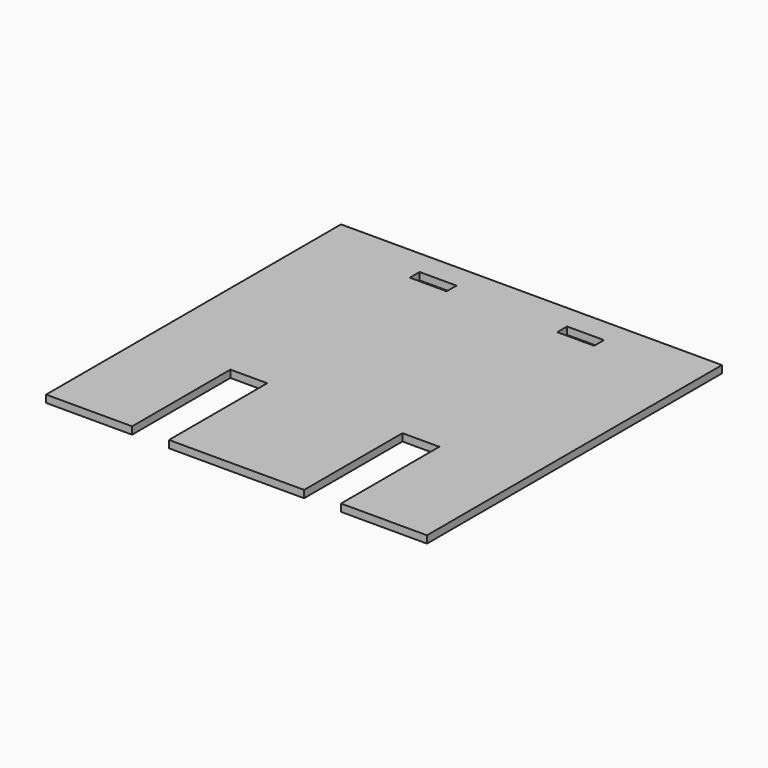
from build123d import *

# Parameters (mm, degrees)
SKETCH_W  = 15
SKETCH_H  = 5
PAD_DEPTH = 3


with BuildPart() as part:
    # Sketch → Pad (new body)
    with BuildSketch(Plane.XY):
        Polygon((-60.255625, 82.82953), (94.744375, 82.82953), (94.744375, -67.17047), (59.744375, -67.17047), (59.744375, -17.17047), (44.744375, -17.17047), (44.744375, -67.17047), (-10.255625, -67.17047), (-10.255625, -17.17047), (-25.255625, -17.17047), (-25.255625, -67.17047), (-60.255625, -67.17047), align=None)
        with Locations((-12.755625, 70.32953)):
            Rectangle(SKETCH_W, SKETCH_H, mode=Mode.SUBTRACT)
        with Locations((47.244375, 70.32953)):
            Rectangle(SKETCH_W, SKETCH_H, mode=Mode.SUBTRACT)
    extrude(amount=PAD_DEPTH)


solid = part.part
